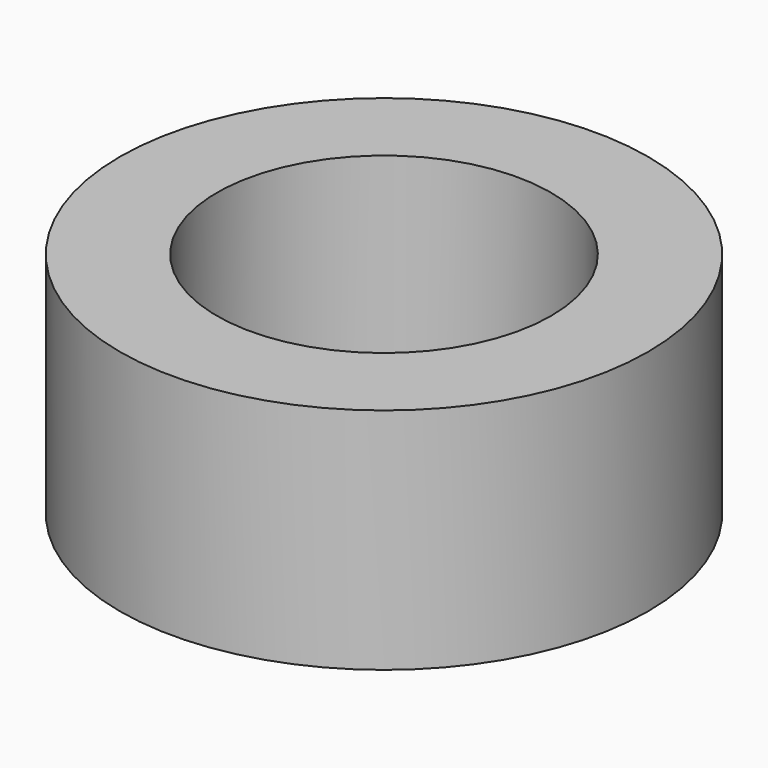
from build123d import *

# Parameters (mm, degrees)
SKETCH_R   = 1.156298
SKETCH_R_2 = 0.731229
PAD_DEPTH  = 1


with BuildPart() as part:
    # Sketch → Pad (new body)
    with BuildSketch(Plane.XY):
        Circle(SKETCH_R)
        Circle(SKETCH_R_2, mode=Mode.SUBTRACT)
    extrude(amount=PAD_DEPTH)


solid = part.part
